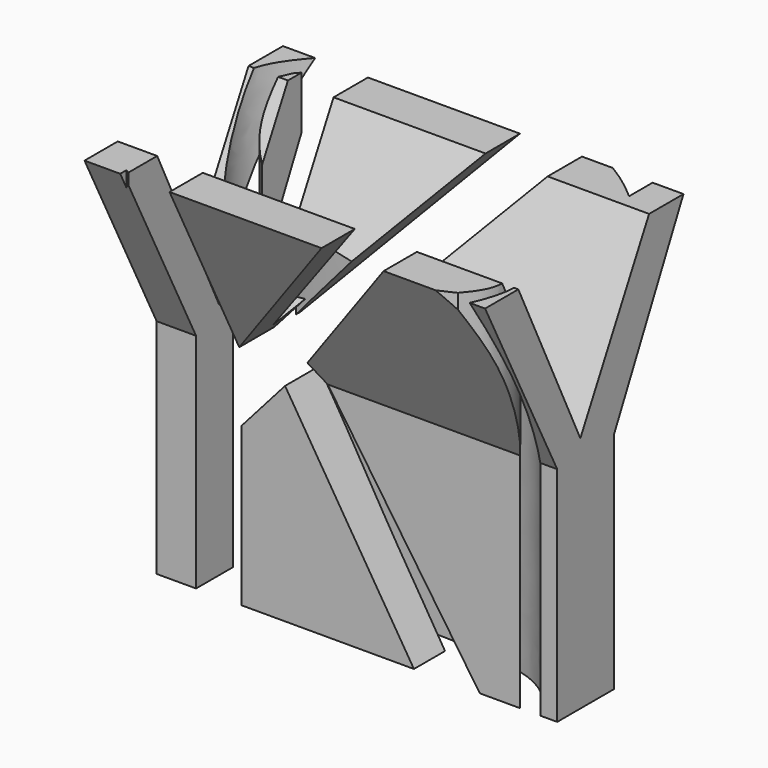
from build123d import *

# Parameters (mm, degrees)
F0_W     = 3.9347386733
F0_H     = 40
F1_DEPTH = 40
F3_DEPTH = 40
F5_DEPTH = 40


with BuildPart() as f1:
    # F0 (on Front) → F1 (new body)
    with BuildSketch(Plane.XZ):
        with Locations((-18.4625598975, 4.3489252871)):
            Rectangle(F0_W, F0_H)
    extrude(amount=-F1_DEPTH)


with BuildPart() as f1b:
    # F0 (on Front) → F1, piece 2 (new body)
    with BuildSketch(Plane.XZ):
        Polygon((3.2385175582, 24.3489252871), (-11.9412587956, 24.3489252871), (-11.9412587956, 7.1653462946), align=None)
    extrude(amount=-F1_DEPTH)


with BuildPart() as f1c:
    # F0 (on Front) → F1, piece 3 (new body)
    with BuildSketch(Plane.XZ):
        Polygon((-11.9412587956, 0.1487175625), (-11.9412587956, -15.6510747129), (5.2624871023, -15.6510747129), (-7.6080834683, 5.0538926315), align=None)
    extrude(amount=-F1_DEPTH)


with BuildPart() as f1d:
    # F0 (on Front) → F1, piece 4 (new body)
    with BuildSketch(Plane.XZ):
        Polygon((19.5700707659, 24.3489252871), (9.4369268045, 24.3489252871), (-4.6234887405, 8.4324680513), (11.8403909728, -15.6510747129), (19.5700707659, -15.6510747129), align=None)
    extrude(amount=-F1_DEPTH)


with BuildPart() as f3_tool:
    # F2 (on face) → F3 (new body)
    with BuildSketch(Plane.XY.offset(24.3489252871)):
        with BuildLine():
            Line((16.4871887023, 30.0018322943), (16.4871887023, 33.8118322943))
            ThreePointArc((16.4871887023, 33.8118322943), (8.9048814226, 38.6677890071), (0, 40))
            ThreePointArc((0, 40), (-8.785357453, 38.4056606214), (-16.4418034256, 33.8118322943))
            add(Edge.make_bspline(
                [(16.2717644125, 8.9390025186), (17.1199552676, 9.965717231), (19.2070994461, 12.4921552638), (13.8545485994, 21.5817741251), (0.4607857736, 20.8130968856), (-7.3868241584, 21.8089242659), (-18.2958903447, 20.3901155401), (-21.278115397, 28.4074191254), (-18.0798880638, 31.9813287529), (-16.4418034256, 33.8118322943)],
                knots=[0, 0, 0, 0, 0.1010071185, 0.2485483287, 0.4295963739, 0.5804258732, 0.7386504657, 0.8661406421, 1, 1, 1, 1], degree=3))
            ThreePointArc((16.2717644125, 8.9390025186), (-0.2982598123, 5.1232259227), (-16.8682840372, 8.9390025186))
            Line((-16.8682840372, 8.9390025186), (-16.8682840372, 5.1290025186))
            ThreePointArc((-16.8682840372, 5.1290025186), (-8.7550385657, 1.5091354094), (0, 0))
            ThreePointArc((0, 0), (8.6602397165, 1.2251939115), (16.4871887023, 5.1290025186))
            add(Edge.make_bspline(
                [(-16.8682840372, 30.0018322943), (-17.4826701933, 28.7369163126), (-19.1476128627, 25.3090842067), (-6.7379291296, 22.5568560717), (11.1616882972, 23.2714165159), (16.8274918652, 19.7428166401), (20.4226565602, 12.4694681253), (17.8288741563, 7.6315247817), (16.4871887023, 5.1290025186)],
                knots=[0, 0, 0, 0, 0.1089054017, 0.2951258723, 0.5436803193, 0.6859453237, 0.8375489824, 1, 1, 1, 1], degree=3))
            ThreePointArc((-16.8682840372, 30.0018322943), (-0.1905476674, 36.431819465), (16.4871887023, 30.0018322943))
        make_face()
    extrude(amount=-F3_DEPTH)


with BuildPart() as f1_1:
    add(f1.part)

    # F3: cut by f3_tool
    add(f3_tool.part, mode=Mode.SUBTRACT)


with BuildPart() as f1b_1:
    add(f1b.part)

    # F3: cut by f3_tool
    add(f3_tool.part, mode=Mode.SUBTRACT)


with BuildPart() as f1c_1:
    add(f1c.part)

    # F3: cut by f3_tool
    add(f3_tool.part, mode=Mode.SUBTRACT)


with BuildPart() as f1d_1:
    add(f1d.part)

    # F3: cut by f3_tool
    add(f3_tool.part, mode=Mode.SUBTRACT)


with BuildPart() as f5_tool:
    # F4 (on face) → F5 (new body)
    with BuildSketch(Plane(origin=(-20.4299292341, 0, 0), x_dir=(0, -1, 0), z_dir=(-1, 0, 0))):
        Polygon((-24.2914576083, 6.776060909), (-32.9447239637, 24.3489252871), (-40, 24.3489252871), (-40, -15.6510747129), (-24.2914576083, -15.6510747129), align=None)
        Polygon((-17.1859283, 6.5650059842), (-17.1859283, -15.6510747129), (0, -15.6510747129), (0, 24.3489252871), (-8.1809042022, 24.3489252871), align=None)
        Polygon((-12.331658043, 24.3489252871), (-28.6532659084, 24.3489252871), (-20.0703516603, 8.1127444282), align=None)
    extrude(amount=-F5_DEPTH)


with BuildPart() as f1_2:
    add(f1_1.part)

    # F5: cut by f5_tool
    add(f5_tool.part, mode=Mode.SUBTRACT)


with BuildPart() as f1b_2:
    add(f1b_1.part)

    # F5: cut by f5_tool
    add(f5_tool.part, mode=Mode.SUBTRACT)


with BuildPart() as f1c_2:
    add(f1c_1.part)

    # F5: cut by f5_tool
    add(f5_tool.part, mode=Mode.SUBTRACT)


with BuildPart() as f1d_2:
    add(f1d_1.part)

    # F5: cut by f5_tool
    add(f5_tool.part, mode=Mode.SUBTRACT)


solid = Compound([f1_2.part, f1b_2.part, f1c_2.part, f1d_2.part])
